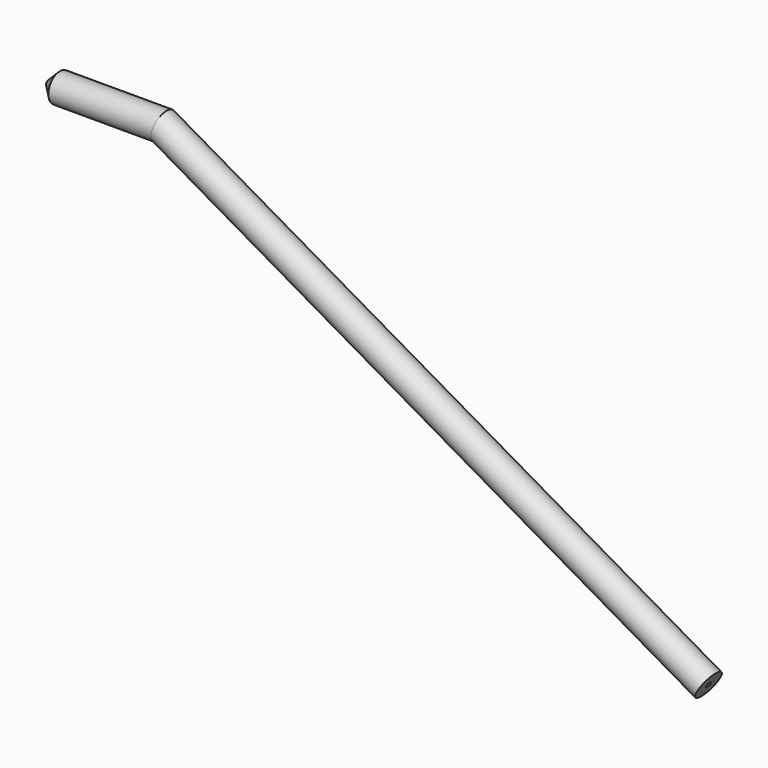
from build123d import *

# Parameters (mm, degrees)
F1_R      = 2.5
F3_SIZE   = 2
F2_FACE_R = 0.5


with BuildPart() as f2:
    # F2: sweep along a path in F0
    with BuildLine(Plane.XZ) as f2_path:
        Line((0, 40.1438838244), (20, 40.1438838244))
        Line((20, 40.1438838244), (115.2627944163, -14.8561161756))
    # F1 (on Right) → F2 (sweep)
    with BuildSketch(Plane.YZ):
        with Locations((0, 40.1438838244)):
            Circle(F1_R)
    sweep(path=f2_path.line, transition=Transition.RIGHT)

    # F3
    f3_edges = [f2.edges().sort_by_distance(p)[0] for p in [
        (0, -2.5, 40.143884),
    ]]
    chamfer(f3_edges, length=F3_SIZE)

    # F4: sweep along a path in F0
    with BuildLine(Plane.XZ) as f4_path:
        Line((0, 40.1438838244), (20, 40.1438838244))
        Line((20, 40.1438838244), (115.2627944163, -14.8561161756))
    # F2_face (on face) → F4 (sweep, cut)
    with BuildSketch(Plane(origin=(0, 0, 40.1438838244), x_dir=(0, -1, 0), z_dir=(-1, 0, 0))):
        Circle(F2_FACE_R)
    sweep(path=f4_path.line, transition=Transition.RIGHT, mode=Mode.SUBTRACT)


solid = f2.part
